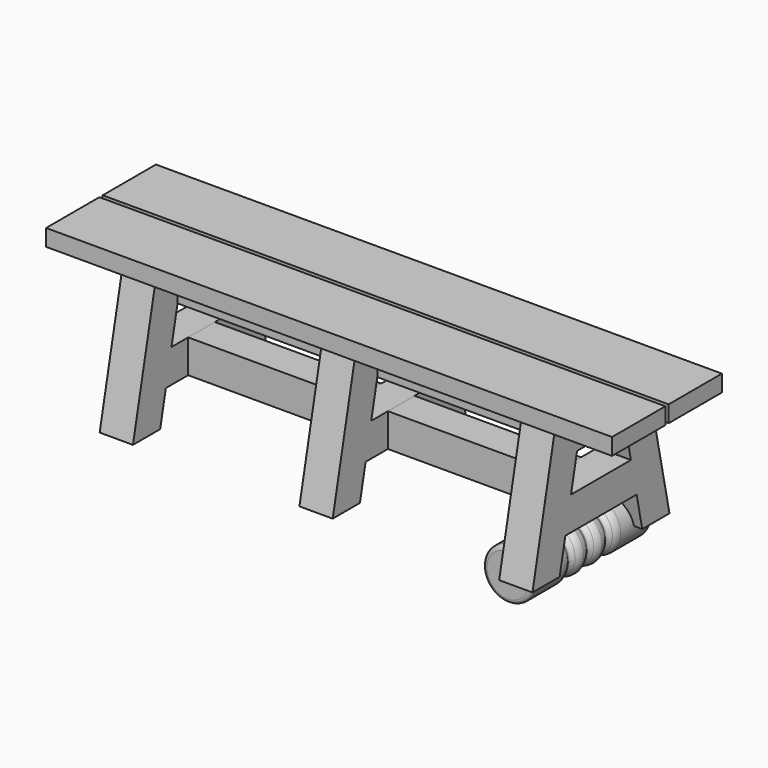
from build123d import *

# Parameters (mm, degrees)
F2_R          = 12.7
F4_DEPTH      = 101.6
F5_W          = 50.8
F5_H          = 101.6
F5_W_2        = 101.6
F6_DEPTH      = 1117.6
F8_W          = 203.2
F8_H          = 50.8
F9_DEPTH      = 304.8
F9_DEPTH_BACK = 1422.4


with BuildPart() as f1:
    # F0 (on Top) → F1 (revolve)
    with BuildSketch(Plane.XY):
        with BuildLine():
            Line((76.2, 228.6), (0, 228.6))
            Line((0, 228.6), (0, 71.12))
            Line((0, 71.12), (0, 0))
            Line((0, 0), (41.91, 0))
            Line((41.91, 0), (41.91, 1.27))
            ThreePointArc((41.91, 1.27), (10.932629, 50.263965), (68.476939, 57.239526))
            add(Edge.make_bspline(
                [(68.476939, 85.000474), (57.15, 71.12), (57.15, 71.12), (68.476939, 57.239526)],
                knots=[0, 0, 0, 0, 27.760948, 27.760948, 27.760948, 27.760948], degree=3))
            ThreePointArc((68.476939, 85.000474), (9.608418, 118.187036), (76.2, 106.68))
            Line((76.2, 106.68), (76.2, 228.6))
        make_face()
        with BuildLine():
            ThreePointArc((68.476939, 85.000474), (74.211582, 95.172964), (76.2, 106.68))
            ThreePointArc((76.2, 106.68), (9.608418, 118.187036), (68.476939, 85.000474))
        make_face()
        with BuildLine():
            ThreePointArc((68.476939, 13.880474), (74.211582, 24.052964), (76.2, 35.56))
            ThreePointArc((76.2, 35.56), (74.211582, 47.067036), (68.476939, 57.239526))
            ThreePointArc((68.476939, 57.239526), (10.932629, 50.263965), (41.91, 1.27))
            ThreePointArc((41.91, 1.27), (56.613965, 4.582629), (68.476939, 13.880474))
        make_face()
        with BuildLine():
            ThreePointArc((68.476939, -13.880474), (56.613965, -4.582629), (41.91, -1.27))
            ThreePointArc((41.91, -1.27), (10.932629, -50.263965), (68.476939, -57.239526))
            ThreePointArc((68.476939, -57.239526), (74.211582, -47.067036), (76.2, -35.56))
            ThreePointArc((76.2, -35.56), (74.211582, -24.052964), (68.476939, -13.880474))
        make_face()
        with BuildLine():
            Line((41.91, 1.27), (41.91, 0))
            Line((41.91, 0), (41.91, -1.27))
            ThreePointArc((41.91, -1.27), (56.613965, -4.582629), (68.476939, -13.880474))
            add(Edge.make_bspline(
                [(68.476939, 13.880474), (57.15, 0), (57.15, 0), (68.476939, -13.880474)],
                knots=[0, 0, 0, 0, 27.760948, 27.760948, 27.760948, 27.760948], degree=3))
            ThreePointArc((68.476939, 13.880474), (56.613965, 4.582629), (41.91, 1.27))
        make_face()
        with BuildLine():
            Line((41.91, 0), (0, 0))
            Line((0, 0), (0, -71.12))
            Line((0, -71.12), (0, -228.6))
            Line((0, -228.6), (76.2, -228.6))
            Line((76.2, -228.6), (76.2, -106.68))
            ThreePointArc((76.2, -106.68), (9.608418, -118.187036), (68.476939, -85.000474))
            add(Edge.make_bspline(
                [(68.476939, -57.239526), (57.15, -71.12), (57.15, -71.12), (68.476939, -85.000474)],
                knots=[0, 0, 0, 0, 27.760948, 27.760948, 27.760948, 27.760948], degree=3))
            ThreePointArc((68.476939, -57.239526), (10.932629, -50.263965), (41.91, -1.27))
            Line((41.91, -1.27), (41.91, 0))
        make_face()
        with BuildLine():
            ThreePointArc((68.476939, -85.000474), (9.608418, -118.187036), (76.2, -106.68))
            ThreePointArc((76.2, -106.68), (74.211582, -95.172964), (68.476939, -85.000474))
        make_face()
    revolve(axis=Axis((0, 0, 0), (0, -1, 0)))

    # F2
    f2_edges = [f1.edges().sort_by_distance(p)[0] for p in [
        (-76.2, 228.6, 0),
        (-76.2, -228.6, 0),
    ]]
    fillet(f2_edges, radius=F2_R)


with BuildPart() as f4:
    # F3 (on Right) → F4 (new body)
    with BuildSketch(Plane.YZ):
        Polygon((69.758773, 412.75), (-69.758773, 412.75), (-91.354519, 311.15), (91.354519, 311.15), align=None)
        Polygon((-69.758773, 412.75), (-173.628577, 412.75), (-261.361298, 0), (-157.491493, 0), (-135.895747, 101.6), (-114.3, 203.2), (-91.354519, 311.15), align=None)
        Polygon((-114.3, 203.2), (-135.895747, 101.6), (135.895747, 101.6), (114.3, 203.2), align=None)
        Polygon((173.628577, 412.75), (69.758773, 412.75), (91.354519, 311.15), (114.3, 203.2), (135.895747, 101.6), (157.491493, 0), (261.361298, 0), align=None)
    extrude(amount=F4_DEPTH)


with BuildPart() as f6:
    # F5 (on Right) → F6 (new body)
    with BuildSketch(Plane.YZ):
        with Locations((65.954519, 361.95)):
            Rectangle(F5_W, F5_H)
        with Locations((-65.954519, 361.95)):
            Rectangle(F5_W, F5_H)
        with Locations((0, 152.4)):
            Rectangle(F5_W_2, F5_H)
    extrude(amount=-F6_DEPTH)


with BuildPart() as f7_1:
    # F7: copy of F4
    add(f4.part.moved(Location((-1219.2, 0, 0))))


with BuildPart() as f9:
    # F8 (on Right) → F9 (new body, two sides)
    with BuildSketch(Plane.YZ) as f9_sk:
        with Locations((-110.128577, 438.15)):
            Rectangle(F8_W, F8_H)
        with Locations((105.771423, 438.15)):
            Rectangle(F8_W, F8_H)
    extrude(amount=F9_DEPTH)
    extrude(f9_sk.sketch, amount=-F9_DEPTH_BACK)


with BuildPart() as f10_1:
    # F10: copy of F4
    add(f4.part.moved(Location((-609.6, 0, 0))))


solid = Compound([f1.part, f4.part, f6.part, f7_1.part, f9.part, f10_1.part])
